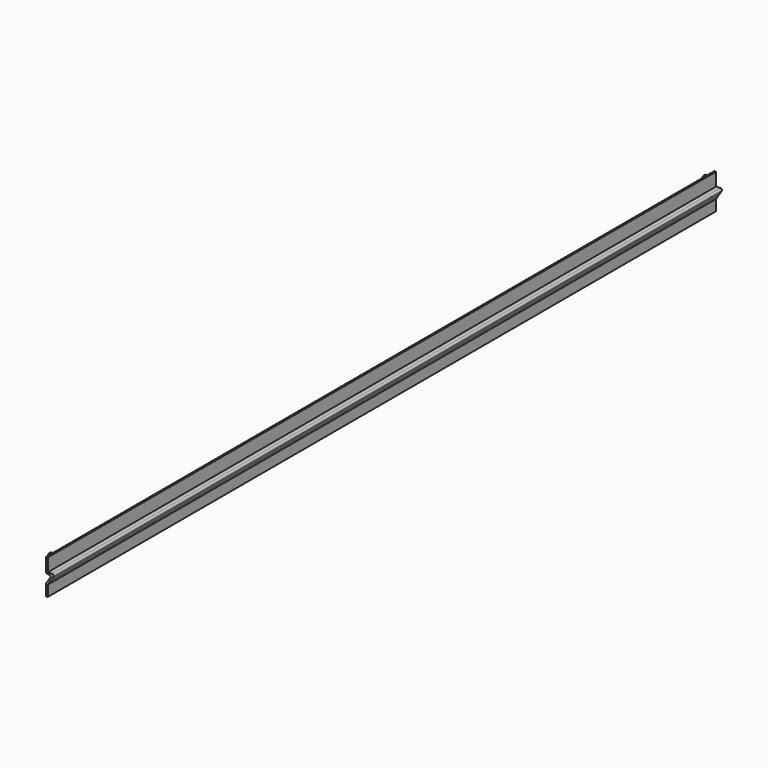
from build123d import *

# Parameters (mm, degrees)
PAD_DEPTH    = 1219.2
SKETCH001_R  = 3
PAD001_DEPTH = 2.54
SKETCH002_R  = 5
PAD002_DEPTH = 2
FILLET_R     = 2


with BuildPart() as part:
    # Sketch → Pad (new body)
    with BuildSketch(Plane.XZ):
        Polygon((0, 0), (0, 16.51), (7.952592, 29.21), (0, 29.21), (0, 50.8), (2.54, 50.8), (2.54, 31.75), (12.54, 31.75), (2.54, 15.780364), (2.54, 0), align=None)
    extrude(amount=PAD_DEPTH)

    # Sketch001 (on Face4 of Pad) → Pad001 (join)
    with BuildSketch(Plane(origin=(0, 0, 0), x_dir=(0, 0, -1), z_dir=(-1, 0, 0))):
        with Locations((-44.45, 12.7)):
            Circle(SKETCH001_R)
        with Locations((-6.35, 12.7)):
            Circle(SKETCH001_R)
        with Locations((-44.45, 1206.5)):
            Circle(SKETCH001_R)
        with Locations((-6.35, 1206.5)):
            Circle(SKETCH001_R)
    extrude(amount=PAD001_DEPTH)

    # Sketch002 (on Face20 of Pad001) → Pad002 (join)
    with BuildSketch(Plane(origin=(-2.54, 0, 0), x_dir=(0, 0, -1), z_dir=(-1, 0, 0))):
        with Locations((-44.45, 12.7)):
            Circle(SKETCH002_R)
        with Locations((-6.35, 12.7)):
            Circle(SKETCH002_R)
        with Locations((-44.45, 1206.5)):
            Circle(SKETCH002_R)
        with Locations((-6.35, 1206.5)):
            Circle(SKETCH002_R)
    extrude(amount=PAD002_DEPTH)

    # Fillet
    fillet_edges = [part.edges().sort_by_distance(p)[0] for p in [
        (12.54, -609.6, 31.75),
        (0, -609.6, 29.21),
        (0, -609.6, 16.51),
        (7.952592, -609.6, 29.21),
    ]]
    fillet(fillet_edges, radius=FILLET_R)


solid = part.part
